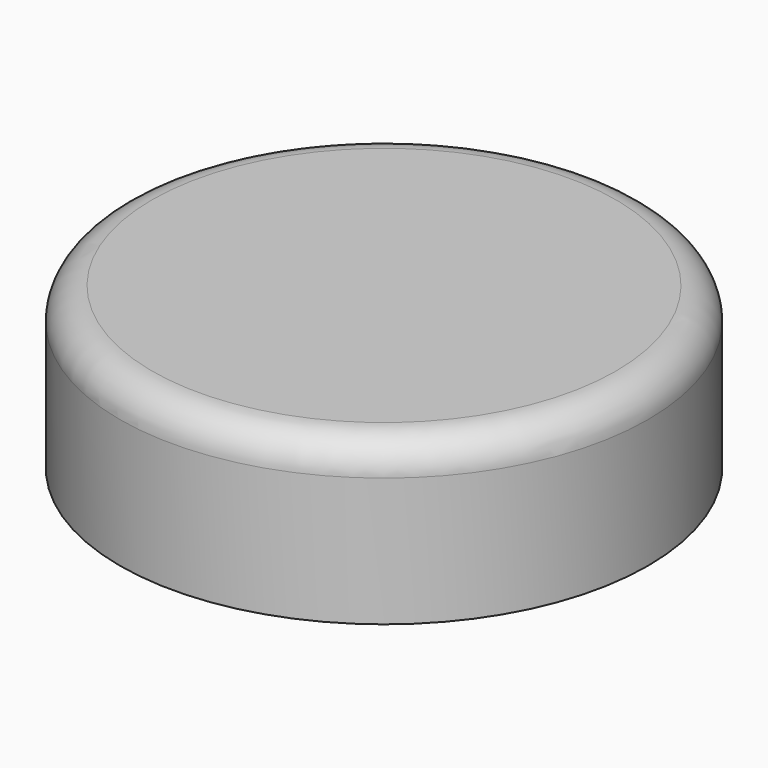
from build123d import *

# Parameters (mm, degrees)
F0_R     = 41.701709
F1_DEPTH = 25.4
F2_T     = -2.54
F3_R     = 5.08


with BuildPart() as f1:
    # F0 (on Top) → F1 (new body)
    with BuildSketch(Plane.XY):
        Circle(F0_R)
    extrude(amount=F1_DEPTH)

    # F2
    f2_openings = [f1.faces().sort_by_distance(p)[0] for p in [
        (0, 0, 0),
    ]]
    offset(amount=F2_T, openings=f2_openings)

    # F3
    f3_edges = [f1.edges().sort_by_distance(p)[0] for p in [
        (-41.701709, 0, 25.4),
    ]]
    fillet(f3_edges, radius=F3_R)


solid = f1.part
